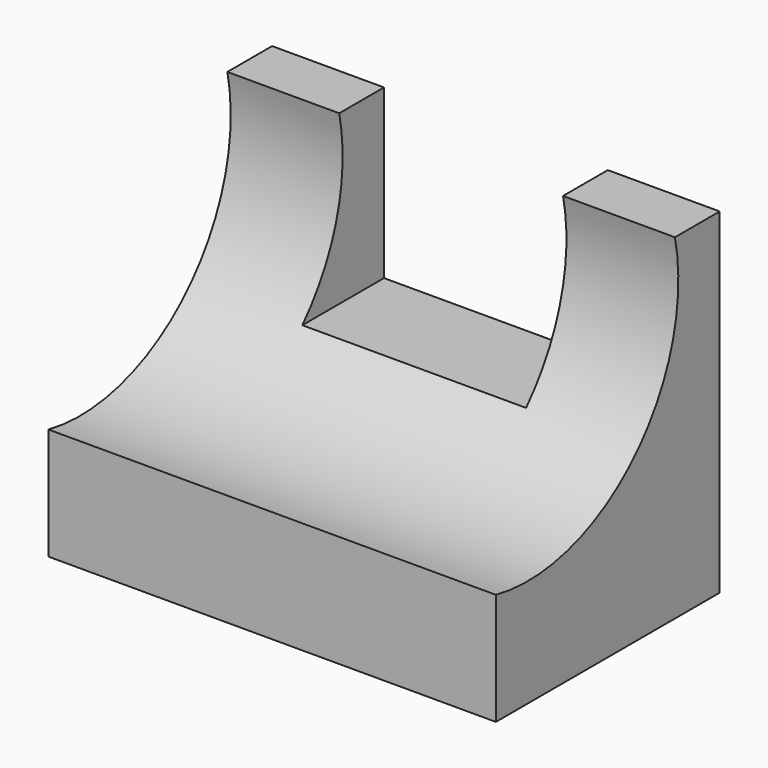
from build123d import *

# Parameters (mm, degrees)
F0_W      = 101.6
F0_H      = 76.2
F1_DEPTH  = 63.5
F3_DEPTH  = 101.6
F4_W      = 50.8
F4_H      = 12.7
F5_DEPTH  = 38.1
F5_FACE_W = 50.8
F5_FACE_H = 20.105892
F6_DEPTH  = 25.4


with BuildPart() as f1:
    # F0 (on Front) → F1 (new body)
    with BuildSketch(Plane.XZ):
        with Locations((-0.270213, -2.291896)):
            Rectangle(F0_W, F0_H)
    extrude(amount=F1_DEPTH)

    # F2 (on face) → F3 (cut)
    with BuildSketch(Plane(origin=(-51.070213, 0, 0), x_dir=(0, -1, 0), z_dir=(-1, 0, 0))):
        with BuildLine():
            Line((63.5, 35.808104), (12.7, 35.808104))
            ThreePointArc((12.7, 35.808104), (24.26693, -3.424965), (63.5, -14.991896))
            Line((63.5, -14.991896), (63.5, 35.808104))
        make_face()
    extrude(amount=-F3_DEPTH, mode=Mode.SUBTRACT)

    # F4 (on face) → F5 (cut)
    with BuildSketch(Plane.XY.offset(35.808104)):
        with Locations((-0.270213, -6.35)):
            Rectangle(F4_W, F4_H)
    extrude(amount=-F5_DEPTH, mode=Mode.SUBTRACT)

    # F5_face (on face) → F6 (cut)
    with BuildSketch(Plane(origin=(-0.270213, -12.7, 7.76105), x_dir=(-1, 0, 0), z_dir=(0, 1, 0))):
        Rectangle(F5_FACE_W, F5_FACE_H)
    extrude(amount=-F6_DEPTH, mode=Mode.SUBTRACT)


solid = f1.part
